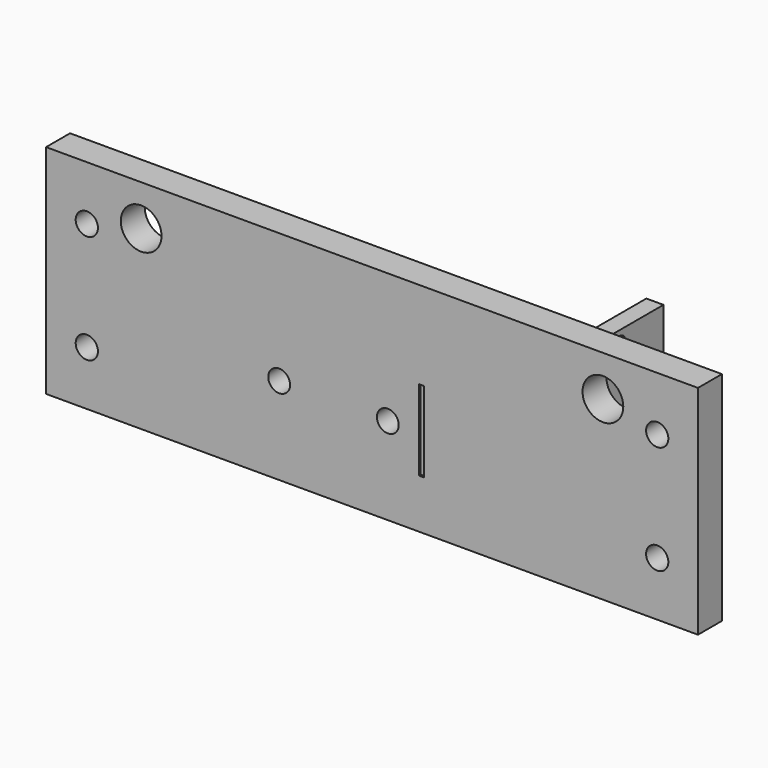
from build123d import *

# Parameters (mm, degrees)
F0_W     = 152.4
F0_H     = 25.4
F0_R     = 2.6
F0_R_2   = 2.5527
F0_R_3   = 4.7625
F1_DEPTH = 7
F3_DEPTH = 0.2
F4_W     = 1.160611
F4_H     = 18.825986
F5_DEPTH = 0.5
F6_W     = 4
F6_H     = 27.813
F7_DEPTH = 19.812
F8_R     = 1.7891
F9_DEPTH = 4


with BuildPart() as f1:
    # F0 (on Front) → F1 (new body)
    with BuildSketch(Plane.XZ):
        with Locations((0, -12.7)):
            Rectangle(F0_W, F0_H)
        with Locations((-66.675, -12.7)):
            Circle(F0_R, mode=Mode.SUBTRACT)
        with Locations((-21.7079, -5)):
            Circle(F0_R_2, mode=Mode.SUBTRACT)
        with Locations((66.675, -12.7)):
            Circle(F0_R, mode=Mode.SUBTRACT)
        with Locations((3.6921, -5)):
            Circle(F0_R_2, mode=Mode.SUBTRACT)
        with Locations((0, 12.7)):
            Rectangle(F0_W, F0_H)
        with Locations((-66.675, 12.7)):
            Circle(F0_R, mode=Mode.SUBTRACT)
        with Locations((-53.975, 15.875)):
            Circle(F0_R_3, mode=Mode.SUBTRACT)
        with Locations((66.675, 12.7)):
            Circle(F0_R, mode=Mode.SUBTRACT)
        with Locations((53.975, 15.875)):
            Circle(F0_R_3, mode=Mode.SUBTRACT)
    extrude(amount=F1_DEPTH)

    # F0 (on Front) → F3 (cut)
    with BuildSketch(Plane.XZ):
        with Locations((0, -12.7)):
            Rectangle(F0_W, F0_H)
        with Locations((-66.675, -12.7)):
            Circle(F0_R, mode=Mode.SUBTRACT)
        with Locations((-21.7079, -5)):
            Circle(F0_R_2, mode=Mode.SUBTRACT)
        with Locations((66.675, -12.7)):
            Circle(F0_R, mode=Mode.SUBTRACT)
        with Locations((3.6921, -5)):
            Circle(F0_R_2, mode=Mode.SUBTRACT)
        with Locations((0, 12.7)):
            Rectangle(F0_W, F0_H)
        with Locations((-66.675, 12.7)):
            Circle(F0_R, mode=Mode.SUBTRACT)
        with Locations((-53.975, 15.875)):
            Circle(F0_R_3, mode=Mode.SUBTRACT)
        with Locations((66.675, 12.7)):
            Circle(F0_R, mode=Mode.SUBTRACT)
        with Locations((53.975, 15.875)):
            Circle(F0_R_3, mode=Mode.SUBTRACT)
    extrude(amount=-F3_DEPTH, mode=Mode.SUBTRACT)

    # F4 (on face) → F5 (cut)
    with BuildSketch(Plane.XZ.offset(7)):
        with Locations((11.550757, -4.44987)):
            Rectangle(F4_W, F4_H)
    extrude(amount=-F5_DEPTH, mode=Mode.SUBTRACT)

    # F6 (on face) → F7 (join)
    with BuildSketch(Plane(origin=(0, 0, 0), x_dir=(-1, 0, 0), z_dir=(0, 1, 0))):
        with Locations((-44.681652, 8.0931)):
            Rectangle(F6_W, F6_H)
    extrude(amount=F7_DEPTH)

    # F8 (on face) → F9 (cut, through all)
    with BuildSketch(Plane(origin=(42.681652, 0, 0), x_dir=(0, -1, 0), z_dir=(-1, 0, 0))):
        with Locations((-16.8545, -2.8559)):
            Circle(F8_R)
        with Locations((-6.928358, 19.0421)):
            Circle(F8_R)
    extrude(amount=-F9_DEPTH, mode=Mode.SUBTRACT)


solid = f1.part
